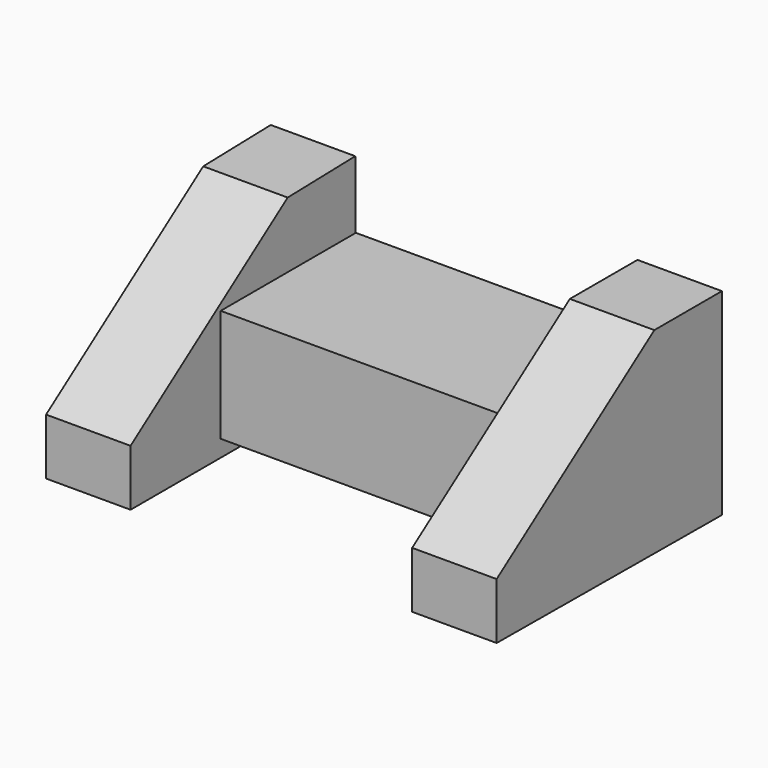
from build123d import *

# Parameters (mm, degrees)
F0_W     = 63.5
F0_H     = 38.1
F1_DEPTH = 25.4
F3_DEPTH = 19.05
F5_DEPTH = 19.05


with BuildPart() as f1:
    # F0 (on Top) → F1 (new body)
    with BuildSketch(Plane.XY):
        with Locations((-1.108171, 18.795629)):
            Rectangle(F0_W, F0_H)
    extrude(amount=F1_DEPTH)

    # F2 (on face) → F3 (join)
    with BuildSketch(Plane.YZ.offset(30.641829)):
        Polygon((37.845629, -3.775676), (37.845629, 0), (37.845629, 40.674324), (18.795629, 40.674324), (-25.653121, 9.322739), (-25.653121, -3.377261), align=None)
    extrude(amount=F3_DEPTH)

    # F4 (on face) → F5 (join)
    with BuildSketch(Plane(origin=(-32.858171, 0, 0), x_dir=(0, -1, 0), z_dir=(-1, 0, 0))):
        Polygon((-18.634845, 40.211677), (-37.67904, 40.681904), (-37.845629, -3.767784), (25.654371, -3.767784), (25.654371, 8.932216), align=None)
    extrude(amount=F5_DEPTH)


solid = f1.part
